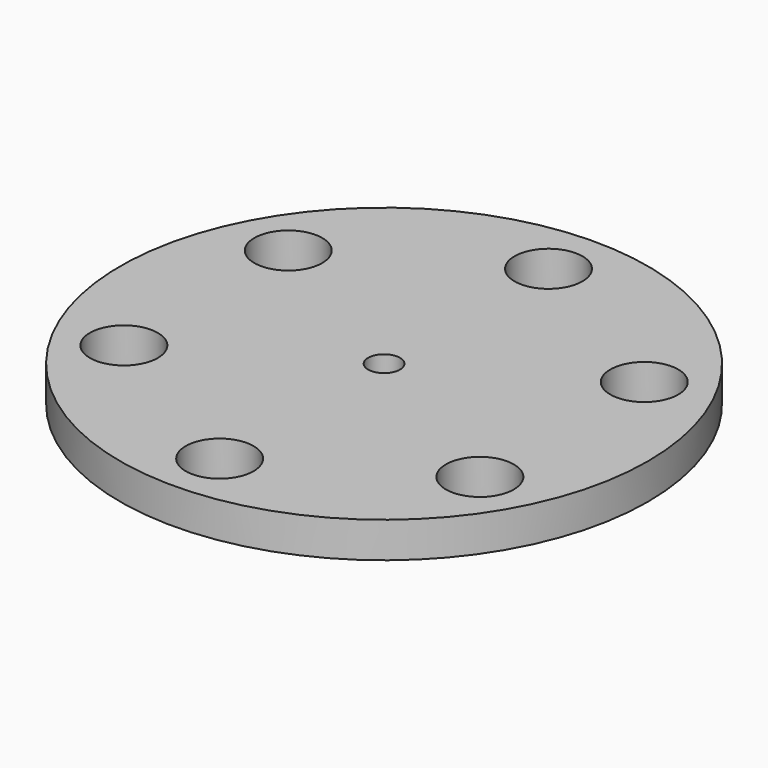
from build123d import *

# Parameters (mm, degrees)
F0_R     = 148
F0_R_2   = 8.95
F1_DEPTH = 20
F2_R     = 82.5
F2_R_2   = 8.95
F3_DEPTH = 8
F2_R_3   = 19.05
F4_DEPTH = 20


with BuildPart() as f1:
    # F0 (on Top) → F1 (new body)
    with BuildSketch(Plane.XY):
        Circle(F0_R)
        Circle(F0_R_2, mode=Mode.SUBTRACT)
    extrude(amount=-F1_DEPTH)

    # F2 (on face) → F3 (cut)
    with BuildSketch(Plane(origin=(0, 0, -20), x_dir=(1, 0, 0), z_dir=(0, 0, -1))):
        Circle(F2_R)
        Circle(F2_R_2, mode=Mode.SUBTRACT)
    extrude(amount=-F3_DEPTH, mode=Mode.SUBTRACT)

    # F2 (on face) → F4 (cut, through all)
    with BuildSketch(Plane(origin=(0, 0, -20), x_dir=(1, 0, 0), z_dir=(0, 0, -1))):
        with Locations((-99.809428, 57.625)):
            Circle(F2_R_3)
        with Locations((-99.809428, -57.625)):
            Circle(F2_R_3)
        with Locations((0, -115.25)):
            Circle(F2_R_3)
        with Locations((99.809428, -57.625)):
            Circle(F2_R_3)
        with Locations((99.809428, 57.625)):
            Circle(F2_R_3)
        with Locations((0, 115.25)):
            Circle(F2_R_3)
    extrude(amount=-F4_DEPTH, mode=Mode.SUBTRACT)


with BuildPart() as f5_1:
    # F5: copy of F1
    add(f1.part)


solid = f1.part
